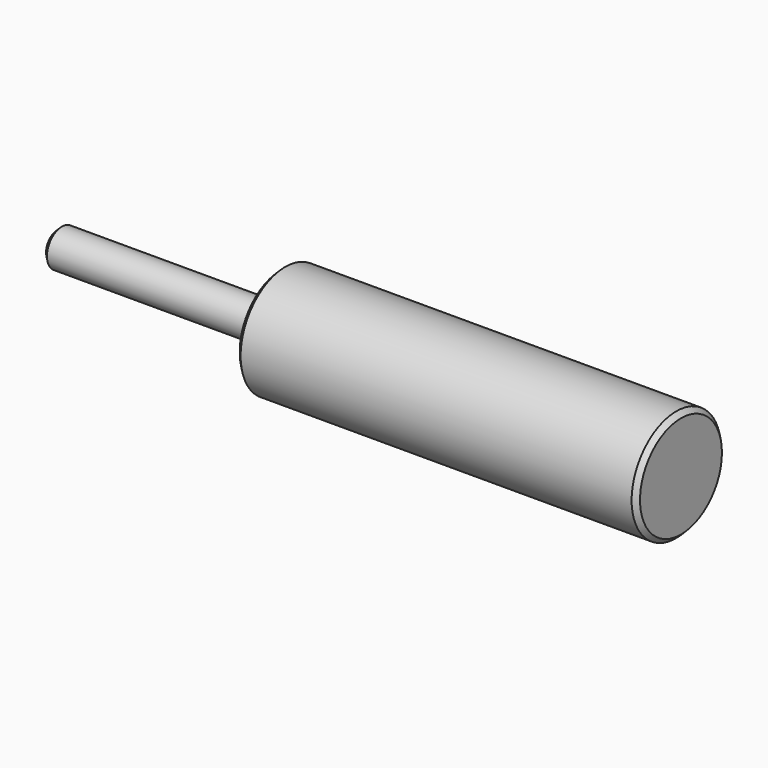
from build123d import *

# Parameters (mm, degrees)
F2_SIZE = 0.5
F3_W    = 64
F3_H    = 2
F5_SIZE = 0.5


with BuildPart() as f1:
    # F0 (on Top) → F1 (revolve)
    with BuildSketch(Plane.XY):
        Polygon((43, 6), (0, 6), (0, 5), (10, 5), (10, 4), (30, 4), (30, 2), (40, 2), (40, 0), (43, 0), align=None)
    revolve(axis=Axis((29.847804, 0, 0), (1, 0, 0)))

    # F2
    f2_edges = [f1.edges().sort_by_distance(p)[0] for p in [
        (0, -6, 0),
        (43, -6, 0),
    ]]
    chamfer(f2_edges, length=F2_SIZE)


with BuildPart() as f4:
    # F3 (on Top) → F4 (revolve)
    with BuildSketch(Plane.XY):
        with Locations((8, 1)):
            Rectangle(F3_W, F3_H)
    revolve(axis=Axis((8, 0, 0), (1, 0, 0)))

    # F5
    f5_edges = [f4.edges().sort_by_distance(p)[0] for p in [
        (-24, -2, 0),
    ]]
    chamfer(f5_edges, length=F5_SIZE)


solid = Compound([f1.part, f4.part])
